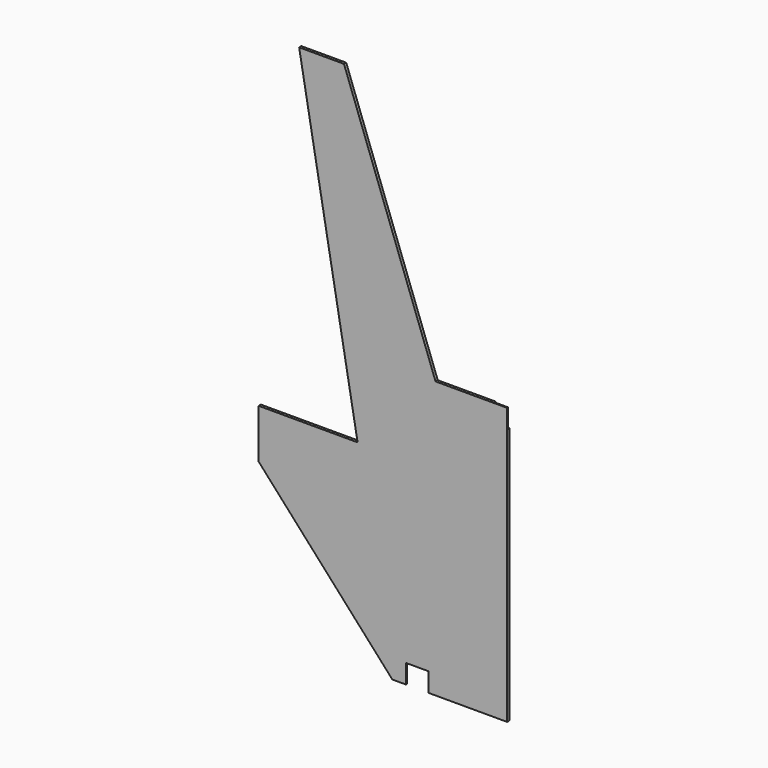
from build123d import *

# Parameters (mm, degrees)
F0_W     = 45
F0_H     = 62
F1_DEPTH = 9
F2_DEPTH = 5


with BuildPart() as f1:
    # F0 (on Front) → F1 (new body)
    with BuildSketch(Plane.XZ):
        Polygon((-435.104496, 482.891372), (-11, 12.208114), (-11, 67), (44, 67), (44, 62), (117, 62), (117, 67), (172, 67), (172, 0), (373.629411, 0), (373.629411, 838), (328.629411, 838), (328.629411, 900), (140.629411, 900), (-157.3519, 1713.119388), (-303.3519, 1713.119388), (-113.104496, 642.891372), (-435.104496, 642.891372), align=None)
        Polygon((-11, 12.208114), (0, 0), (44, 0), (44, 62), (44, 67), (-11, 67), align=None)
        Polygon((117, 67), (117, 62), (117, 0), (172, 0), (172, 67), align=None)
        with Locations((351.129411, 869)):
            Rectangle(F0_W, F0_H)
    extrude(amount=F1_DEPTH)

    # F0 (on Front) → F2 (cut)
    with BuildSketch(Plane.XZ):
        with Locations((351.129411, 869)):
            Rectangle(F0_W, F0_H)
        Polygon((-11, 12.208114), (0, 0), (44, 0), (44, 62), (44, 67), (-11, 67), align=None)
        Polygon((117, 67), (117, 62), (117, 0), (172, 0), (172, 67), align=None)
    extrude(amount=F2_DEPTH, mode=Mode.SUBTRACT)


solid = f1.part
